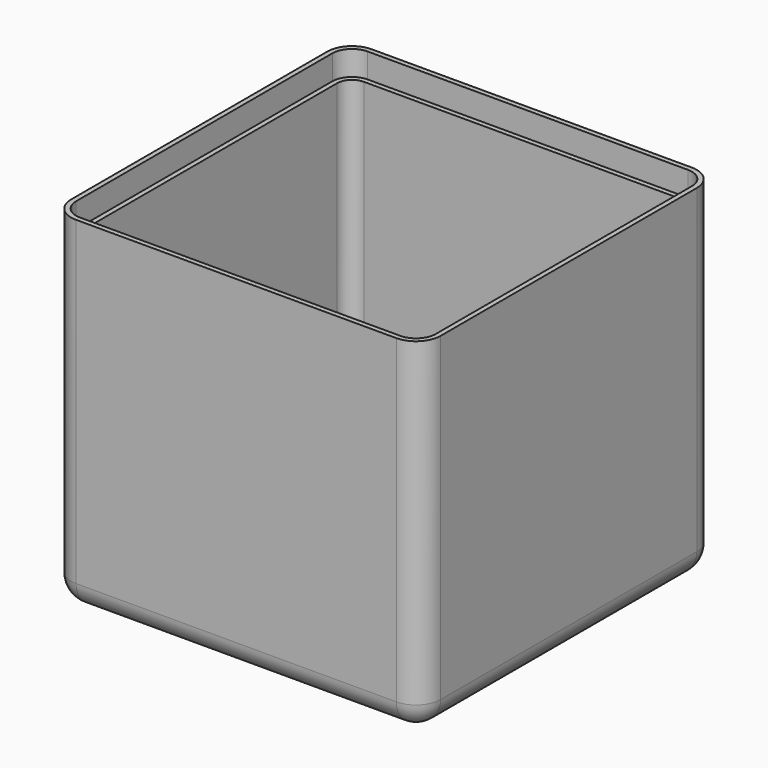
from build123d import *

# Parameters (mm, degrees)
F0_W     = 75
F0_H     = 75
F0_W_2   = 71
F0_H_2   = 71
F1_DEPTH = 70
F2_R     = 5
F3_T     = -2
F6_DEPTH = 5


with BuildPart() as f1:
    # F0 (on Top) → F1 (new body)
    with BuildSketch(Plane.XY):
        Rectangle(F0_W, F0_H)
        Rectangle(F0_W_2, F0_H_2, mode=Mode.SUBTRACT)
        Rectangle(F0_W_2, F0_H_2)
    extrude(amount=F1_DEPTH)

    # F2
    f2_edges = [f1.edges().sort_by_distance(p)[0] for p in [
        (-37.5, -37.5, 35),
        (37.5, -37.5, 35),
        (0, -37.5, 0),
        (-37.5, 0, 0),
        (-37.5, 37.5, 35),
        (0, 37.5, 0),
        (37.5, 37.5, 35),
        (37.5, 0, 0),
    ]]
    fillet(f2_edges, radius=F2_R)

    # F3
    f3_openings = [f1.faces().sort_by_distance(p)[0] for p in [
        (0, 0, 70),
    ]]
    offset(amount=F3_T, openings=f3_openings)

    # F5 (on offset) → F6 (cut)
    with BuildSketch(Plane.XY.offset(70)):
        with BuildLine():
            Line((-36.5, 32.5), (-36.5, -32.5))
            ThreePointArc((-36.5, -32.5), (-35.3284271247, -35.3284271247), (-32.5, -36.5))
            Line((-32.5, -36.5), (32.5, -36.5))
            ThreePointArc((32.5, -36.5), (35.3284271247, -35.3284271247), (36.5, -32.5))
            Line((36.5, -32.5), (36.5, 32.5))
            ThreePointArc((36.5, 32.5), (35.3284271247, 35.3284271247), (32.5, 36.5))
            Line((32.5, 36.5), (-32.5, 36.5))
            ThreePointArc((-32.5, 36.5), (-35.3284271247, 35.3284271247), (-36.5, 32.5))
        make_face()
    extrude(amount=-F6_DEPTH, mode=Mode.SUBTRACT)


solid = f1.part
